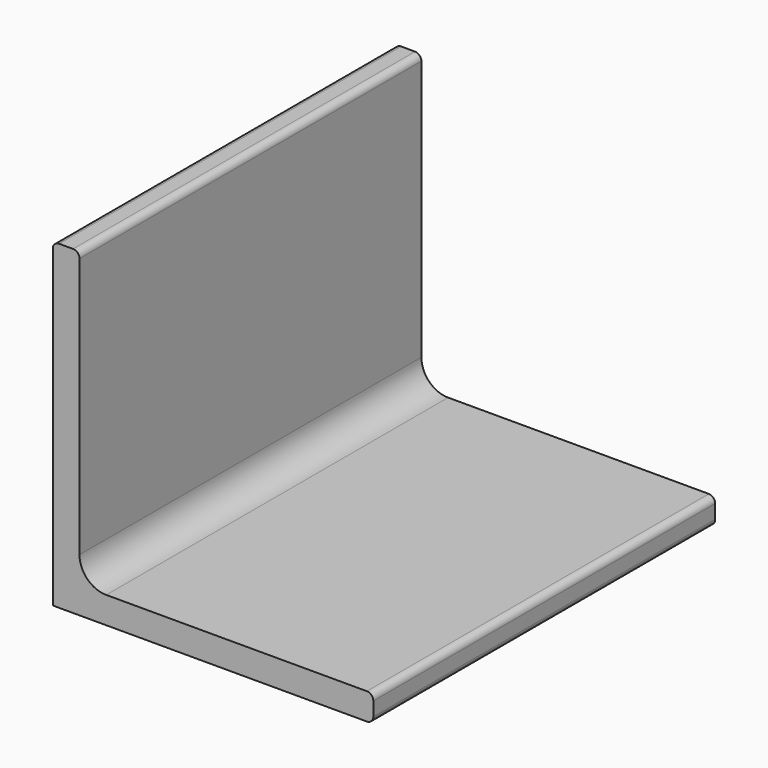
from build123d import *

# Parameters (mm, degrees)
F1_DEPTH = 50.8


with BuildPart() as f1:
    # F0 (on Front) → F1 (new body)
    with BuildSketch(Plane.XZ):
        with BuildLine():
            Line((0, 37.338), (0, 0))
            Line((0, 0), (37.338, 0))
            ThreePointArc((37.338, 0), (37.876815, 0.223185), (38.1, 0.762))
            Line((38.1, 0.762), (38.1, 2.413))
            ThreePointArc((38.1, 2.413), (37.876815, 2.951815), (37.338, 3.175))
            Line((37.338, 3.175), (6.35, 3.175))
            ThreePointArc((6.35, 3.175), (4.104936, 4.104936), (3.175, 6.35))
            Line((3.175, 6.35), (3.175, 37.338))
            ThreePointArc((3.175, 37.338), (2.951815, 37.876815), (2.413, 38.1))
            Line((2.413, 38.1), (0.762, 38.1))
            ThreePointArc((0.762, 38.1), (0.223185, 37.876815), (0, 37.338))
        make_face()
    extrude(amount=F1_DEPTH)


solid = f1.part
